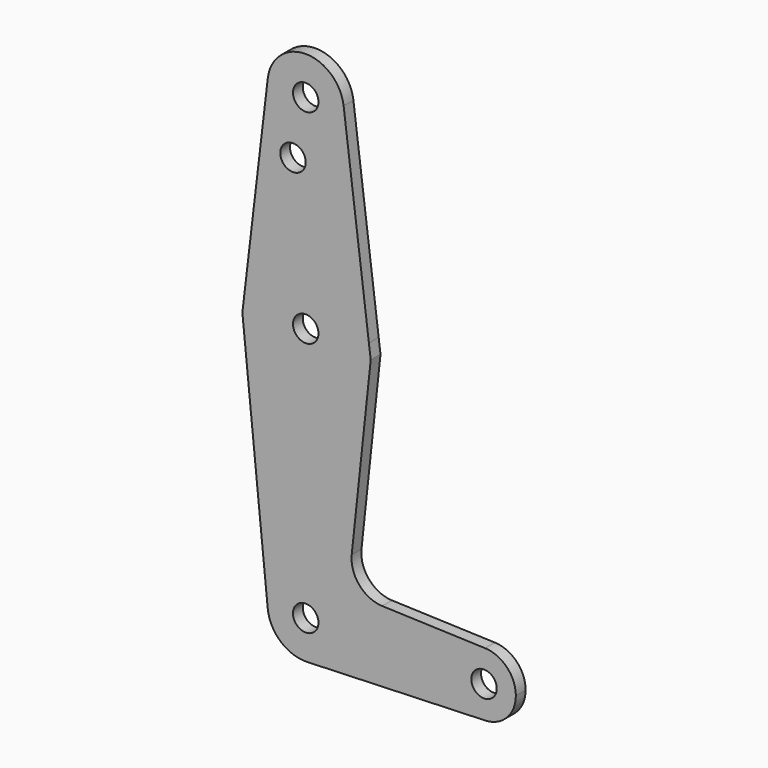
from build123d import *

# Parameters (mm, degrees)
F0_R     = 3.175
F1_DEPTH = 3.048


with BuildPart() as f1:
    # F0 (on Front) → F1 (new body)
    with BuildSketch(Plane.XZ):
        with BuildLine():
            ThreePointArc((-9.458905, 115.420149), (-0.561049, 104.791538), (9.525, 114.3))
            ThreePointArc((9.525, 114.3), (9.506305, 114.896483), (9.450293, 115.490625))
            ThreePointArc((9.450293, 115.490625), (-0.0355, 123.824934), (-9.458905, 115.420149))
        make_face()
        with Locations((0, 114.3)):
            Circle(F0_R, mode=Mode.SUBTRACT)
        with BuildLine():
            ThreePointArc((9.450293, 115.490625), (9.506305, 114.896483), (9.525, 114.3))
            ThreePointArc((9.525, 114.3), (-0.561049, 104.791538), (-9.458905, 115.420149))
            Line((-9.458905, 115.420149), (-14.987732, 68.732925))
            ThreePointArc((-14.987732, 68.732925), (1.668448, 79.28708), (15.750488, 65.484375))
            Line((15.750488, 65.484375), (9.450293, 115.490625))
        make_face()
        with Locations((-3.175, 100.0252)):
            Circle(F0_R, mode=Mode.SUBTRACT)
        with BuildLine():
            ThreePointArc((15.875, 63.5), (15.843841, 64.494139), (15.750488, 65.484375))
            ThreePointArc((15.750488, 65.484375), (1.668448, 79.28708), (-14.987732, 68.732925))
            Line((-14.987732, 68.732925), (-15.795426, 61.9125))
            ThreePointArc((-15.795426, 61.9125), (0.794747, 47.644906), (15.875, 63.5))
        make_face()
        with Locations((0, 63.5)):
            Circle(F0_R, mode=Mode.SUBTRACT)
        with BuildLine():
            Line((16.200502, 61.9125), (15.750488, 65.484375))
            ThreePointArc((15.750488, 65.484375), (15.843841, 64.494139), (15.875, 63.5))
            ThreePointArc((15.875, 63.5), (0.794747, 47.644906), (-15.795426, 61.9125))
            Line((-15.795426, 61.9125), (-9.477255, -0.9525))
            ThreePointArc((-9.477255, -0.9525), (-0.476848, 9.513056), (9.525, 0))
            ThreePointArc((9.525, 0), (6.854408, -6.613827), (0.340179, -9.518923))
            Line((0.340179, -9.518923), (44.733482, -7.932436))
            ThreePointArc((44.733482, -7.932436), (36.5125, -0.000539), (44.732405, 7.932475))
            Line((44.732405, 7.932475), (19.087653, 8.845457))
            ThreePointArc((19.087653, 8.845457), (13.363905, 11.582325), (11.465387, 17.636032))
            Line((11.465387, 17.636032), (16.200502, 61.9125))
        make_face()
        with BuildLine():
            ThreePointArc((9.525, 0), (-0.476848, 9.513056), (-9.477255, -0.9525))
            ThreePointArc((-9.477255, -0.9525), (-6.262383, -7.17692), (0.340179, -9.518923))
            ThreePointArc((0.340179, -9.518923), (6.854408, -6.613827), (9.525, 0))
        make_face()
        Circle(F0_R, mode=Mode.SUBTRACT)
        with BuildLine():
            ThreePointArc((52.3875, 0), (50.161633, 5.51191), (44.732405, 7.932475))
            ThreePointArc((44.732405, 7.932475), (36.5125, -0.000539), (44.733482, -7.932436))
            ThreePointArc((44.733482, -7.932436), (50.162007, -5.511523), (52.3875, 0))
        make_face()
        with Locations((44.45, 0)):
            Circle(F0_R, mode=Mode.SUBTRACT)
    extrude(amount=F1_DEPTH)


solid = f1.part
